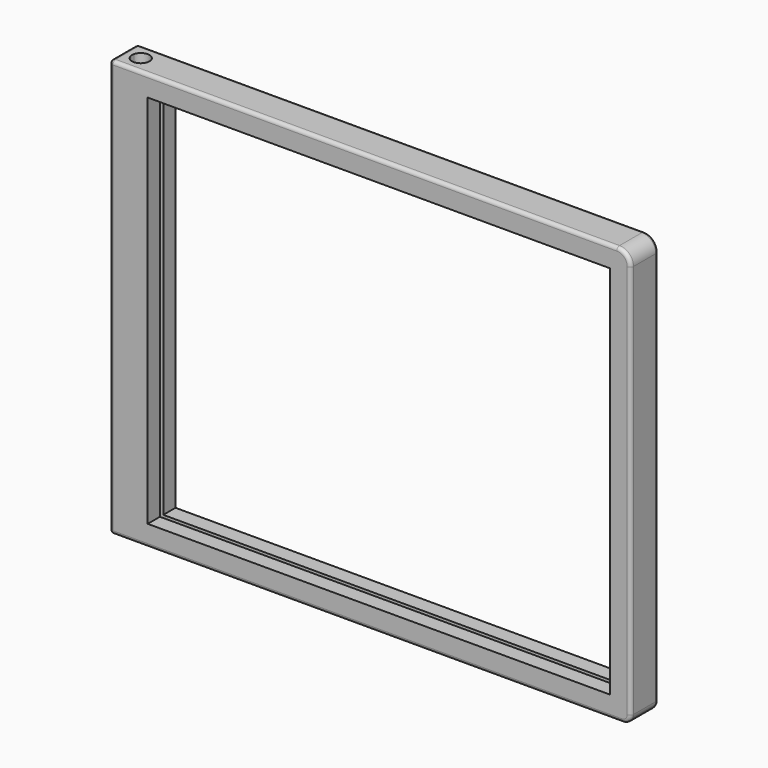
from build123d import *

# Parameters (mm, degrees)
F0_W     = 190.5
F0_H     = 152.4
F0_W_2   = 168.91
F0_H_2   = 137.16
F1_DEPTH = 12.7
F3_R     = 5.08
F4_R     = 3.175
F5_R     = 1.27
F6_R     = 1.27
F7_START = -5.08
F2_W     = 69.85
F2_H     = 1.524
F7_DEPTH = 140.97
F8_DEPTH = 152.401


with BuildPart() as f1:
    # F0 (on Front) → F1 (new body)
    with BuildSketch(Plane.XZ):
        with Locations((95.25, 76.2)):
            Rectangle(F0_W, F0_H)
        with Locations((98.425, 76.2)):
            Rectangle(F0_W_2, F0_H_2, mode=Mode.SUBTRACT)
    extrude(amount=-F1_DEPTH)

    # F3
    f3_edges = [f1.edges().sort_by_distance(p)[0] for p in [
        (190.5, 6.35, 152.4),
    ]]
    fillet(f3_edges, radius=F3_R)

    # F4
    f4_edges = [f1.edges().sort_by_distance(p)[0] for p in [
        (190.5, 6.35, 0),
    ]]
    fillet(f4_edges, radius=F4_R)

    # F5
    f5_edges = [f1.edges().sort_by_distance(p)[0] for p in [
        (0, 0, 76.2),
        (0, 12.7, 76.2),
    ]]
    fillet(f5_edges, radius=F5_R)

    # F6
    f6_edges = [f1.edges().sort_by_distance(p)[0] for p in [
        (93.345, 0, 152.4),
        (1.27, 0, 76.2),
    ]]
    fillet(f6_edges, radius=F6_R)

    # F2 (on face) → F7 (cut)
    with BuildSketch(Plane.XY.offset(152.4).offset(F7_START)):
        with Locations((-34.925, 6.35)):
            Rectangle(F2_W, F2_H)
        with BuildLine():
            ThreePointArc((3.2677960807, 5.588), (3.175, 6.35), (3.2677960807, 7.112))
            Line((3.2677960807, 7.112), (0, 7.112))
            Line((0, 7.112), (0, 5.588))
            Line((0, 5.588), (3.2677960807, 5.588))
        make_face()
        with BuildLine():
            ThreePointArc((9.4322039193, 5.588), (9.5017155998, 5.9661852294), (9.525, 6.35))
            ThreePointArc((9.525, 6.35), (9.5017155998, 6.7338147706), (9.4322039193, 7.112))
            Line((9.4322039193, 7.112), (3.2677960807, 7.112))
            ThreePointArc((3.2677960807, 7.112), (3.175, 6.35), (3.2677960807, 5.588))
            Line((3.2677960807, 5.588), (9.4322039193, 5.588))
        make_face()
        with BuildLine():
            ThreePointArc((9.4322039193, 7.112), (9.5017155998, 6.7338147706), (9.525, 6.35))
            ThreePointArc((9.525, 6.35), (9.5017155998, 5.9661852294), (9.4322039193, 5.588))
            Line((9.4322039193, 5.588), (184.15, 5.588))
            Line((184.15, 5.588), (184.15, 7.112))
            Line((184.15, 7.112), (9.4322039193, 7.112))
        make_face()
    extrude(amount=-F7_DEPTH, mode=Mode.SUBTRACT)

    # F2 (on face) → F8 (cut, through all)
    with BuildSketch(Plane.XY.offset(152.4)):
        with BuildLine():
            ThreePointArc((9.4322039193, 5.588), (9.5017155998, 5.9661852294), (9.525, 6.35))
            ThreePointArc((9.525, 6.35), (9.5017155998, 6.7338147706), (9.4322039193, 7.112))
            Line((9.4322039193, 7.112), (3.2677960807, 7.112))
            ThreePointArc((3.2677960807, 7.112), (3.175, 6.35), (3.2677960807, 5.588))
            Line((3.2677960807, 5.588), (9.4322039193, 5.588))
        make_face()
        with BuildLine():
            ThreePointArc((3.2677960807, 5.588), (6.35, 3.175), (9.4322039193, 5.588))
            Line((9.4322039193, 5.588), (3.2677960807, 5.588))
        make_face()
        with BuildLine():
            Line((3.2677960807, 7.112), (9.4322039193, 7.112))
            ThreePointArc((9.4322039193, 7.112), (6.35, 9.525), (3.2677960807, 7.112))
        make_face()
    extrude(amount=-F8_DEPTH, mode=Mode.SUBTRACT)


solid = f1.part
